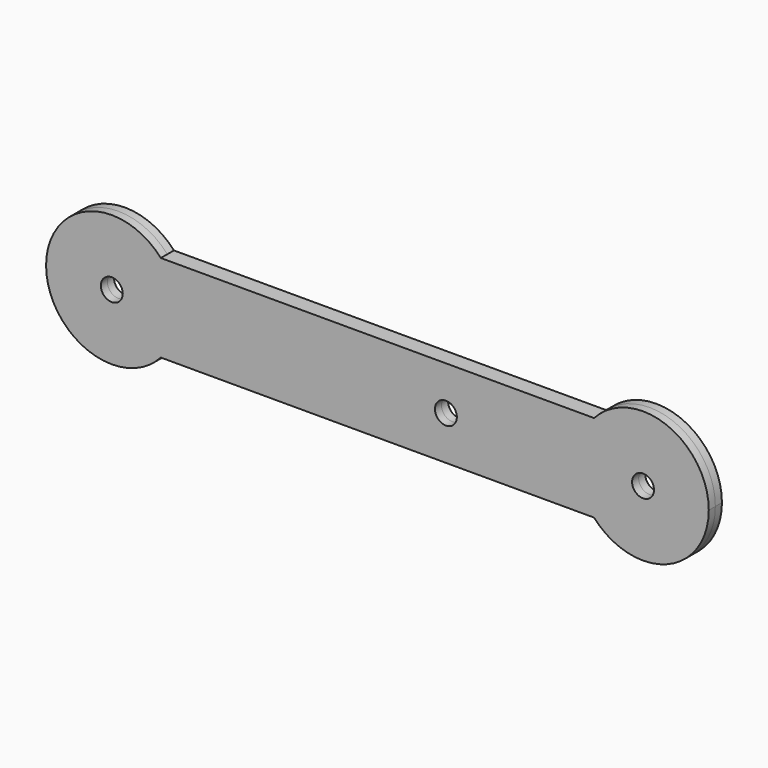
from build123d import *

# Parameters (mm, degrees)
F0_R     = 6.35
F1_DEPTH = 4.7625


with BuildPart() as f1:
    # F0 (on Front) → F1 (new body, symmetric)
    with BuildSketch(Plane.XZ):
        with BuildLine():
            Line((-101.7769366858, -25.4), (149.4019366858, -25.4))
            ThreePointArc((149.4019366858, -25.4), (139.7, 0), (149.4019366858, 25.4))
            Line((149.4019366858, 25.4), (-101.7769366858, 25.4))
            ThreePointArc((-101.7769366858, 25.4), (-94.5830331235, 13.5949216204), (-92.075, 0))
            ThreePointArc((-92.075, 0), (-94.5830331235, -13.5949216204), (-101.7769366858, -25.4))
        make_face()
        with Locations((63.5, 0)):
            Circle(F0_R, mode=Mode.SUBTRACT)
        with BuildLine():
            Line((-130.175, -25.4), (-101.7769366858, -25.4))
            ThreePointArc((-101.7769366858, -25.4), (-94.5830331235, -13.5949216204), (-92.075, 0))
            ThreePointArc((-92.075, 0), (-94.5830331235, 13.5949216204), (-101.7769366858, 25.4))
            Line((-101.7769366858, 25.4), (-130.175, 25.4))
            ThreePointArc((-130.175, 25.4), (-112.2144877579, 17.9605122421), (-104.775, 0))
            ThreePointArc((-104.775, 0), (-112.2144877579, -17.9605122421), (-130.175, -25.4))
        make_face()
        with BuildLine():
            ThreePointArc((-130.175, 25.4), (-155.575, 0), (-130.175, -25.4))
            ThreePointArc((-130.175, -25.4), (-112.2144877579, -17.9605122421), (-104.775, 0))
            ThreePointArc((-104.775, 0), (-112.2144877579, 17.9605122421), (-130.175, 25.4))
        make_face()
        with Locations((-130.175, 0)):
            Circle(F0_R, mode=Mode.SUBTRACT)
        with BuildLine():
            Line((-130.175, 25.4), (-101.7769366858, 25.4))
            ThreePointArc((-101.7769366858, 25.4), (-130.175, 38.1), (-158.5730633142, 25.4))
            Line((-158.5730633142, 25.4), (-130.175, 25.4))
        make_face()
        with BuildLine():
            Line((-158.5730633142, -25.4), (-130.175, -25.4))
            ThreePointArc((-130.175, -25.4), (-155.575, 0), (-130.175, 25.4))
            Line((-130.175, 25.4), (-158.5730633142, 25.4))
            ThreePointArc((-158.5730633142, 25.4), (-168.275, 0), (-158.5730633142, -25.4))
        make_face()
        with BuildLine():
            ThreePointArc((-158.5730633142, -25.4), (-130.175, -38.1), (-101.7769366858, -25.4))
            Line((-101.7769366858, -25.4), (-130.175, -25.4))
            Line((-130.175, -25.4), (-158.5730633142, -25.4))
        make_face()
        with BuildLine():
            Line((203.2, 25.4), (203.2, -25.4))
            Line((203.2, -25.4), (149.4019366858, -25.4))
            ThreePointArc((149.4019366858, -25.4), (191.3949216204, -35.5919668765), (215.9, 0))
            ThreePointArc((215.9, 0), (191.3949216204, 35.5919668765), (149.4019366858, 25.4))
            Line((149.4019366858, 25.4), (203.2, 25.4))
        make_face()
        with BuildLine():
            Line((149.4019366858, -25.4), (203.2, -25.4))
            Line((203.2, -25.4), (203.2, 25.4))
            Line((203.2, 25.4), (149.4019366858, 25.4))
            ThreePointArc((149.4019366858, 25.4), (139.7, 0), (149.4019366858, -25.4))
        make_face()
        with Locations((177.8, 0)):
            Circle(F0_R, mode=Mode.SUBTRACT)
    extrude(amount=F1_DEPTH, both=True)


solid = f1.part
